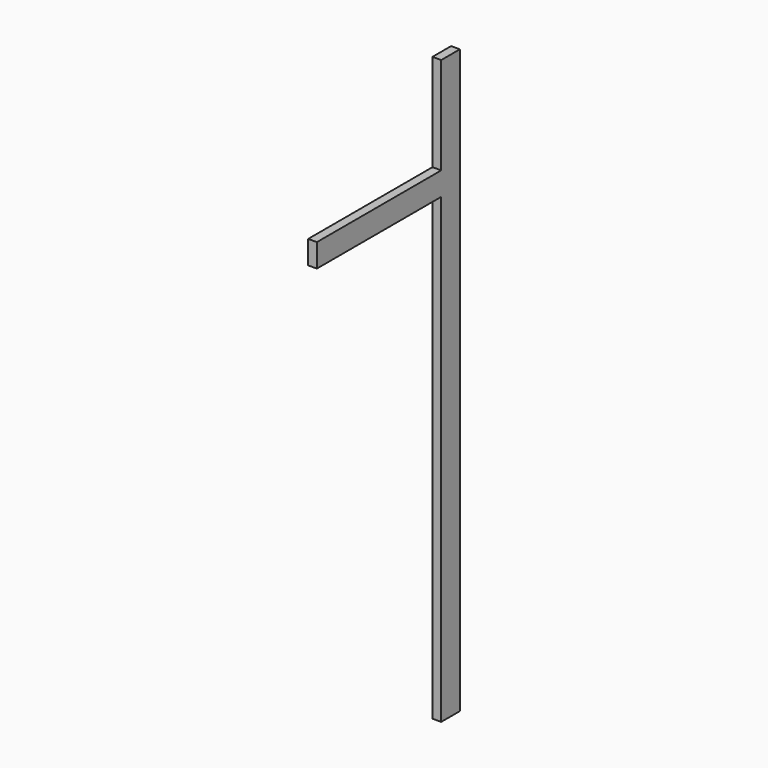
from build123d import *

# Parameters (mm, degrees)
F0_W          = 45
F0_H          = 120
F1_DEPTH      = 800
F2_W          = 45
F2_H          = 120
F3_DEPTH      = 500
F3_DEPTH_BACK = 2500


with BuildPart() as f1:
    # F0 (on Front) → F1 (new body)
    with BuildSketch(Plane.XZ):
        with Locations((22.5, -60)):
            Rectangle(F0_W, F0_H)
    extrude(amount=F1_DEPTH)

    # F2 (on Top) → F3 (join, two sides)
    with BuildSketch(Plane.XY) as f3_sk:
        with Locations((22.5, 60)):
            Rectangle(F2_W, F2_H)
    extrude(amount=F3_DEPTH)
    extrude(f3_sk.sketch, amount=-F3_DEPTH_BACK)


solid = f1.part
